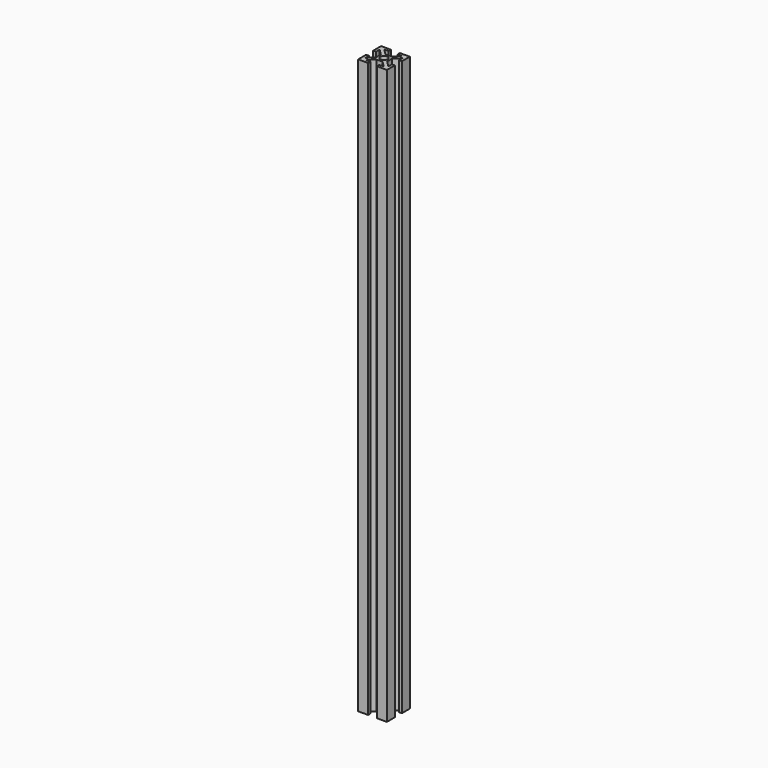
from build123d import *

# Parameters (mm, degrees)
SKETCH_W        = 20
SKETCH_H        = 20
PAD_DEPTH       = 400
SKETCH001_R     = 2.5
POCKET_DEPTH    = 400.001
POCKET001_DEPTH = 400.001


with BuildPart() as part:
    # Sketch → Pad (new body)
    with BuildSketch(Plane.XY):
        Rectangle(SKETCH_W, SKETCH_H)
    extrude(amount=PAD_DEPTH)

    # Sketch001 (on Face6 of Pad) → Pocket (cut, through all)
    with BuildSketch(Plane.XY.offset(400)):
        Circle(SKETCH001_R)
        Polygon((-3.1, 10), (3.1, 10), (3.1, 8), (6.232233, 8), (2.132233, 3.9), (-2.132233, 3.9), (-6.232233, 8), (-3.1, 8), align=None)
        Polygon((-3.1, -8), (-6.232233, -8), (-2.132233, -3.9), (2.132233, -3.9), (6.232233, -8), (3.1, -8), (3.1, -10), (-3.1, -10), align=None)
    extrude(amount=-POCKET_DEPTH, mode=Mode.SUBTRACT)

    # Sketch002 (on Face2 of Pocket) → Pocket001 (cut, through all)
    with BuildSketch(Plane(origin=(0, 0, 0), x_dir=(1, 0, 0), z_dir=(0, 0, -1))):
        Polygon((-10, -3.1), (-8, -3.1), (-8, -6.232233), (-3.9, -2.132233), (-3.9, 2.132233), (-8, 6.232233), (-8, 3.1), (-10, 3.1), align=None)
        Polygon((3.9, -2.132233), (3.9, 2.132233), (8, 6.232233), (8, 3.1), (10, 3.1), (10, -3.1), (8, -3.1), (8, -6.232233), align=None)
    extrude(amount=-POCKET001_DEPTH, mode=Mode.SUBTRACT)


solid = part.part
